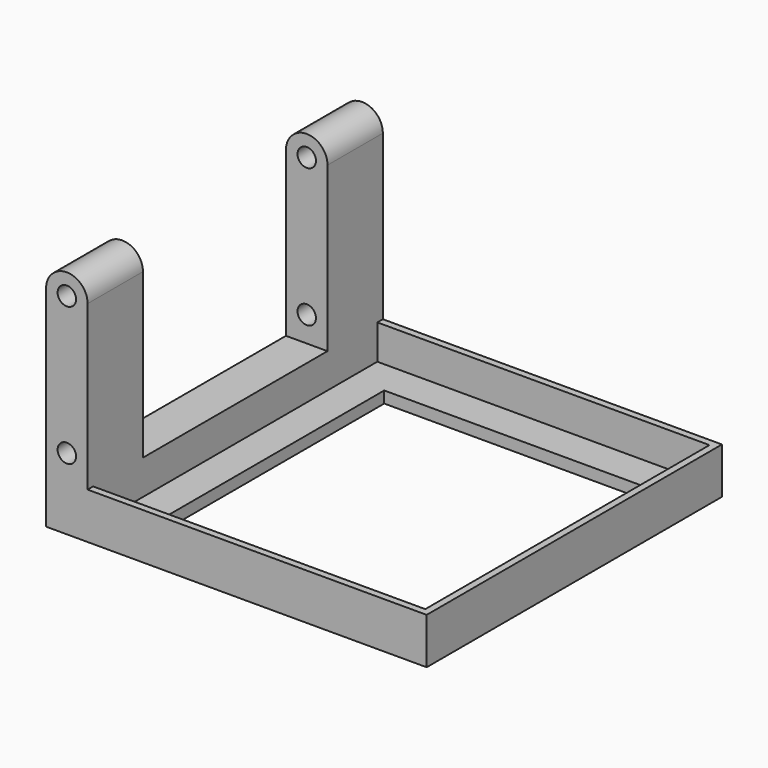
from build123d import *

# Parameters (mm, degrees)
BOX_W        = 18
BOX_H        = 100
BOX_DEPTH    = 80
SKETCH001_W  = 144
SKETCH001_H  = 154
PAD_DEPTH    = 15
SKETCH002_W  = 114
SKETCH002_H  = 124
PAD002_DEPTH = 5
SKETCH_R     = 4
PAD001_DEPTH = 160


with BuildPart() as cube:
    # Box → Box (new body)
    with BuildSketch(Plane(origin=(-91.5, -41, 20), x_dir=(1, 0, 0), z_dir=(0, 0, 1))):
        with Locations((9, 50)):
            Rectangle(BOX_W, BOX_H)
    extrude(amount=BOX_DEPTH)


with BuildPart() as baseframe:
    # Sketch001 → Pad (new body)
    with BuildSketch(Plane.XY.offset(20)):
        with Locations((-1.5, 9)):
            Rectangle(SKETCH001_W, SKETCH001_H)
    extrude(amount=-PAD_DEPTH)


with BuildPart() as cutblock:
    # Sketch002 → Pad002 (new body)
    with BuildSketch(Plane.XY.offset(5)):
        with Locations((-1.5, 9)):
            Rectangle(SKETCH002_W, SKETCH002_H)
    extrude(amount=-PAD002_DEPTH)

    # Fusion: union BaseFrame
    add(baseframe.part)


with BuildPart() as cut001:
    # Sketch → Pad001 (new body)
    with BuildSketch(Plane(origin=(0, -71, 20), x_dir=(1, 0, 0), z_dir=(0, -1, 0))):
        with BuildLine():
            Line((-91.5, -20), (-91.5, 71.000001))
            ThreePointArc((-73.5, 71), (-82.5, 80), (-91.5, 71.000001))
            Line((-73.5, 0), (-73.5, 71))
            Line((73.5, 0), (-73.5, 0))
            Line((73.5, -20), (73.5, 0))
            Line((-91.5, -20), (73.5, -20))
        make_face()
        with Locations((-82.5, 71)):
            Circle(SKETCH_R, mode=Mode.SUBTRACT)
        with Locations((-82.5, 11)):
            Circle(SKETCH_R, mode=Mode.SUBTRACT)
    extrude(amount=-PAD001_DEPTH)

    # Cut: cut CutBlock
    add(cutblock.part, mode=Mode.SUBTRACT)

    # Cut001: cut Cube
    add(cube.part, mode=Mode.SUBTRACT)


solid = cut001.part
